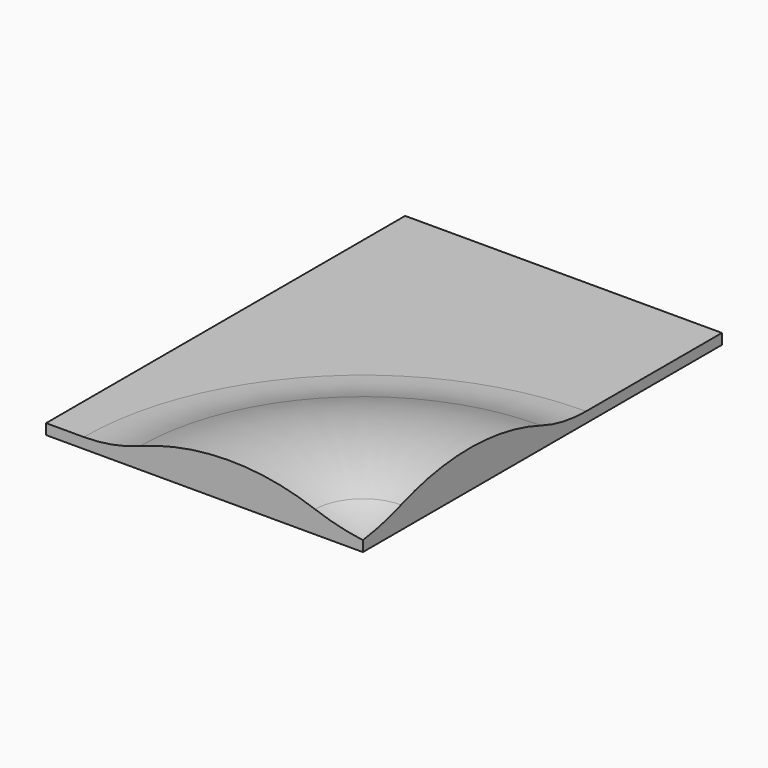
from build123d import *

# Parameters (mm, degrees)
F0_W     = 1200
F0_H     = 1700
F1_DEPTH = 40


with BuildPart() as f1:
    # F0 (on Top) → F1 (new body)
    with BuildSketch(Plane.XY):
        Rectangle(F0_W, F0_H)
    extrude(amount=F1_DEPTH)

    # F4: sweep along a path in F2
    with BuildLine(Plane.XY.offset(40)) as f4_path:
        ThreePointArc((600, 207.1325182915), (-147.5055722967, -102.4944277033), (-457.1325182915, -850))
    # F3 (on face) → F4 (sweep)
    with BuildSketch(Plane.XZ.offset(850)):
        with BuildLine():
            Line((-457.1325182915, 40), (600, 40))
            ThreePointArc((600, 40), (508.3623118642, 56.9893159834), (419.1437396466, 83.9364701175))
            ThreePointArc((419.1437396466, 83.9364701175), (87.0794762527, 141.1112589254), (-244.1133451009, 79.0875007158))
            ThreePointArc((-244.1133451009, 79.0875007158), (-348.8447063515, 49.8527727886), (-457.1325182915, 40))
        make_face()
    sweep(path=f4_path.line)


solid = f1.part
